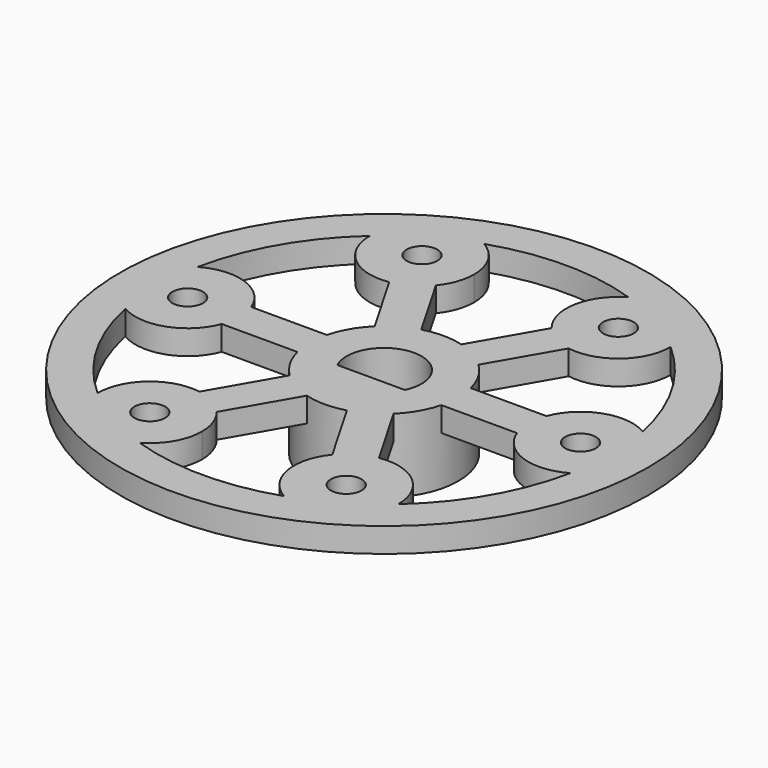
from build123d import *

# Parameters (mm, degrees)
F0_R     = 6.05
F1_DEPTH = 6
F2_R     = 21.5
F2_R_2   = 1.25
F3_DEPTH = 2


with BuildPart() as f1:
    # F0 (on Top) → F1 (new body)
    with BuildSketch(Plane.XY):
        Circle(F0_R)
        with BuildLine():
            Line((2.75, -1.3190905958), (-2.75, -1.3190905958))
            ThreePointArc((-2.75, -1.3190905958), (0, 3.05), (2.75, -1.3190905958))
        make_face(mode=Mode.SUBTRACT)
    extrude(amount=F1_DEPTH)

    # F2 (on face) → F3 (join)
    with BuildSketch(Plane.XY.offset(6)):
        Circle(F2_R)
        with BuildLine():
            ThreePointArc((12.2499946096, 13.8631753962), (16.02146997, 9.25), (18.130859375, 3.67721883))
            ThreePointArc((18.130859375, 3.67721883), (19.6822990335, 2.1220682902), (20.25, 0))
            ThreePointArc((20.25, 0), (19.6822990335, -2.1220682902), (18.130859375, -3.67721883))
            ThreePointArc((18.130859375, -3.67721883), (16.02146997, -9.25), (12.2499946096, -13.8631753962))
            ThreePointArc((12.2499946096, -13.8631753962), (10.125, -17.5370144266), (5.8808647654, -17.5403942262))
            ThreePointArc((5.8808647654, -17.5403942262), (0, -18.5), (-5.8808647654, -17.5403942262))
            ThreePointArc((-5.8808647654, -17.5403942262), (-10.125, -17.5370144266), (-12.2499946096, -13.8631753962))
            ThreePointArc((-12.2499946096, -13.8631753962), (-16.02146997, -9.25), (-18.130859375, -3.67721883))
            ThreePointArc((-18.130859375, -3.67721883), (-20.25, 0), (-18.130859375, 3.67721883))
            ThreePointArc((-18.130859375, 3.67721883), (-16.02146997, 9.25), (-12.2499946096, 13.8631753962))
            ThreePointArc((-12.2499946096, 13.8631753962), (-10.125, 17.5370144266), (-5.8808647654, 17.5403942262))
            ThreePointArc((-5.8808647654, 17.5403942262), (0, 18.5), (5.8808647654, 17.5403942262))
            ThreePointArc((5.8808647654, 17.5403942262), (10.125, 17.5370144266), (12.2499946096, 13.8631753962))
        make_face(mode=Mode.SUBTRACT)
        with BuildLine():
            ThreePointArc((-12.0235065699, 1.5), (-14.5728834228, 4.0032284815), (-18.130859375, 3.67721883))
            ThreePointArc((-18.130859375, 3.67721883), (-18.5, 0), (-18.130859375, -3.67721883))
            ThreePointArc((-18.130859375, -3.67721883), (-14.5728834228, -4.0032284815), (-12.0235065699, -1.5))
            Line((-12.0235065699, -1.5), (-14, -1.5))
            Line((-14, -1.5), (-14, 1.5))
            Line((-14, 1.5), (-12.0235065699, 1.5))
        make_face()
        with Locations((-16, 0)):
            Circle(F2_R_2, mode=Mode.SUBTRACT)
        with BuildLine():
            ThreePointArc((-3.75, 13.8564064606), (-4.3210854354, 15.9843368228), (-5.8808647654, 17.5403942262))
            ThreePointArc((-5.8808647654, 17.5403942262), (-9.25, 16.02146997), (-12.2499946096, 13.8631753962))
            ThreePointArc((-12.2499946096, 13.8631753962), (-10.7533392736, 10.6188730098), (-7.3107913906, 9.6626621321))
            Line((-7.3107913906, 9.6626621321), (-8.2990381057, 11.374355653))
            Line((-8.2990381057, 11.374355653), (-5.7009618943, 12.874355653))
            Line((-5.7009618943, 12.874355653), (-4.7127151792, 11.1626621321))
            ThreePointArc((-4.7127151792, 11.1626621321), (-3.9979092659, 12.4261023824), (-3.75, 13.8564064606))
        make_face()
        with Locations((-8, 13.8564064606)):
            Circle(F2_R_2, mode=Mode.SUBTRACT)
        with BuildLine():
            ThreePointArc((12.25, 13.8564064606), (12.2499986524, 13.8597909294), (12.2499946096, 13.8631753962))
            ThreePointArc((12.2499946096, 13.8631753962), (9.25, 16.02146997), (5.8808647654, 17.5403942262))
            ThreePointArc((5.8808647654, 17.5403942262), (3.8195441493, 14.6221014913), (4.7127151792, 11.1626621321))
            Line((4.7127151792, 11.1626621321), (5.7009618943, 12.874355653))
            Line((5.7009618943, 12.874355653), (8.2990381057, 11.374355653))
            Line((8.2990381057, 11.374355653), (7.3107913906, 9.6626621321))
            ThreePointArc((7.3107913906, 9.6626621321), (10.7507602049, 10.6166814267), (12.25, 13.8564064606))
        make_face()
        with Locations((8, 13.8564064606)):
            Circle(F2_R_2, mode=Mode.SUBTRACT)
        with BuildLine():
            ThreePointArc((18.130859375, -3.67721883), (18.4074835113, -1.8478503135), (18.5, 0))
            ThreePointArc((18.5, 0), (18.4074835113, 1.8478503135), (18.130859375, 3.67721883))
            ThreePointArc((18.130859375, 3.67721883), (14.5728834228, 4.0032284815), (12.0235065699, 1.5))
            Line((12.0235065699, 1.5), (14, 1.5))
            Line((14, 1.5), (14, -1.5))
            Line((14, -1.5), (12.0235065699, -1.5))
            ThreePointArc((12.0235065699, -1.5), (14.5728834228, -4.0032284815), (18.130859375, -3.67721883))
        make_face()
        with Locations((16, 0)):
            Circle(F2_R_2, mode=Mode.SUBTRACT)
        with BuildLine():
            ThreePointArc((5.8808647654, -17.5403942262), (9.25, -16.02146997), (12.2499946096, -13.8631753962))
            ThreePointArc((12.2499946096, -13.8631753962), (12.2499986524, -13.8597909294), (12.25, -13.8564064606))
            ThreePointArc((12.25, -13.8564064606), (10.7507602049, -10.6166814267), (7.3107913906, -9.6626621321))
            Line((7.3107913906, -9.6626621321), (8.2990381057, -11.374355653))
            Line((8.2990381057, -11.374355653), (5.7009618943, -12.874355653))
            Line((5.7009618943, -12.874355653), (4.7127151792, -11.1626621321))
            ThreePointArc((4.7127151792, -11.1626621321), (3.8195441493, -14.6221014913), (5.8808647654, -17.5403942262))
        make_face()
        with Locations((8, -13.8564064606)):
            Circle(F2_R_2, mode=Mode.SUBTRACT)
        with BuildLine():
            ThreePointArc((-12.2499946096, -13.8631753962), (-9.25, -16.02146997), (-5.8808647654, -17.5403942262))
            ThreePointArc((-5.8808647654, -17.5403942262), (-4.3210854354, -15.9843368228), (-3.75, -13.8564064606))
            ThreePointArc((-3.75, -13.8564064606), (-3.9979092659, -12.4261023824), (-4.7127151792, -11.1626621321))
            Line((-4.7127151792, -11.1626621321), (-5.7009618943, -12.874355653))
            Line((-5.7009618943, -12.874355653), (-8.2990381057, -11.374355653))
            Line((-8.2990381057, -11.374355653), (-7.3107913906, -9.6626621321))
            ThreePointArc((-7.3107913906, -9.6626621321), (-10.7533392736, -10.6188730098), (-12.2499946096, -13.8631753962))
        make_face()
        with Locations((-8, -13.8564064606)):
            Circle(F2_R_2, mode=Mode.SUBTRACT)
        with BuildLine():
            ThreePointArc((-12.2499946096, 13.8631753962), (-9.25, 16.02146997), (-5.8808647654, 17.5403942262))
            ThreePointArc((-5.8808647654, 17.5403942262), (-10.125, 17.5370144266), (-12.2499946096, 13.8631753962))
        make_face()
        with BuildLine():
            ThreePointArc((-18.130859375, -3.67721883), (-18.5, 0), (-18.130859375, 3.67721883))
            ThreePointArc((-18.130859375, 3.67721883), (-20.25, 0), (-18.130859375, -3.67721883))
        make_face()
        with BuildLine():
            ThreePointArc((-12.2499946096, -13.8631753962), (-10.125, -17.5370144266), (-5.8808647654, -17.5403942262))
            ThreePointArc((-5.8808647654, -17.5403942262), (-9.25, -16.02146997), (-12.2499946096, -13.8631753962))
        make_face()
        with BuildLine():
            ThreePointArc((5.8808647654, -17.5403942262), (10.125, -17.5370144266), (12.2499946096, -13.8631753962))
            ThreePointArc((12.2499946096, -13.8631753962), (9.25, -16.02146997), (5.8808647654, -17.5403942262))
        make_face()
        with BuildLine():
            ThreePointArc((18.130859375, 3.67721883), (18.4074835113, 1.8478503135), (18.5, 0))
            ThreePointArc((18.5, 0), (18.4074835113, -1.8478503135), (18.130859375, -3.67721883))
            ThreePointArc((18.130859375, -3.67721883), (19.6822990335, -2.1220682902), (20.25, 0))
            ThreePointArc((20.25, 0), (19.6822990335, 2.1220682902), (18.130859375, 3.67721883))
        make_face()
        with BuildLine():
            ThreePointArc((5.8808647654, 17.5403942262), (9.25, 16.02146997), (12.2499946096, 13.8631753962))
            ThreePointArc((12.2499946096, 13.8631753962), (10.125, 17.5370144266), (5.8808647654, 17.5403942262))
        make_face()
        with BuildLine():
            ThreePointArc((-4.7127151792, 11.1626621321), (-5.875, 10.1757984945), (-7.3107913906, 9.6626621321))
            Line((-7.3107913906, 9.6626621321), (-4.2295883953, 4.3258619958))
            ThreePointArc((-4.2295883953, 4.3258619958), (-3.025, 5.2394536929), (-1.6315121839, 5.8258619958))
            Line((-1.6315121839, 5.8258619958), (-4.7127151792, 11.1626621321))
        make_face()
        with BuildLine():
            Line((-8.2990381057, 11.374355653), (-7.3107913906, 9.6626621321))
            ThreePointArc((-7.3107913906, 9.6626621321), (-5.875, 10.1757984945), (-4.7127151792, 11.1626621321))
            Line((-4.7127151792, 11.1626621321), (-5.7009618943, 12.874355653))
            Line((-5.7009618943, 12.874355653), (-8.2990381057, 11.374355653))
        make_face()
        with BuildLine():
            Line((5.7009618943, 12.874355653), (4.7127151792, 11.1626621321))
            ThreePointArc((4.7127151792, 11.1626621321), (5.875, 10.1757984945), (7.3107913906, 9.6626621321))
            Line((7.3107913906, 9.6626621321), (8.2990381057, 11.374355653))
            Line((8.2990381057, 11.374355653), (5.7009618943, 12.874355653))
        make_face()
        with BuildLine():
            ThreePointArc((7.3107913906, 9.6626621321), (5.875, 10.1757984945), (4.7127151792, 11.1626621321))
            Line((4.7127151792, 11.1626621321), (1.6315121839, 5.8258619958))
            ThreePointArc((1.6315121839, 5.8258619958), (3.025, 5.2394536929), (4.2295883953, 4.3258619958))
            Line((4.2295883953, 4.3258619958), (7.3107913906, 9.6626621321))
        make_face()
        with BuildLine():
            ThreePointArc((12.0235065699, -1.5), (11.75, 0), (12.0235065699, 1.5))
            Line((12.0235065699, 1.5), (5.8611005792, 1.5))
            ThreePointArc((5.8611005792, 1.5), (6.0025893789, 0.7559237712), (6.05, 0))
            ThreePointArc((6.05, 0), (6.0025893789, -0.7559237712), (5.8611005792, -1.5))
            Line((5.8611005792, -1.5), (12.0235065699, -1.5))
        make_face()
        with BuildLine():
            Line((14, 1.5), (12.0235065699, 1.5))
            ThreePointArc((12.0235065699, 1.5), (11.75, 0), (12.0235065699, -1.5))
            Line((12.0235065699, -1.5), (14, -1.5))
            Line((14, -1.5), (14, 1.5))
        make_face()
        with BuildLine():
            Line((1.6315121839, -5.8258619958), (4.7127151792, -11.1626621321))
            ThreePointArc((4.7127151792, -11.1626621321), (5.875, -10.1757984945), (7.3107913906, -9.6626621321))
            Line((7.3107913906, -9.6626621321), (4.2295883953, -4.3258619958))
            ThreePointArc((4.2295883953, -4.3258619958), (3.025, -5.2394536929), (1.6315121839, -5.8258619958))
        make_face()
        with BuildLine():
            ThreePointArc((7.3107913906, -9.6626621321), (5.875, -10.1757984945), (4.7127151792, -11.1626621321))
            Line((4.7127151792, -11.1626621321), (5.7009618943, -12.874355653))
            Line((5.7009618943, -12.874355653), (8.2990381057, -11.374355653))
            Line((8.2990381057, -11.374355653), (7.3107913906, -9.6626621321))
        make_face()
        with BuildLine():
            Line((-4.2295883953, -4.3258619958), (-7.3107913906, -9.6626621321))
            ThreePointArc((-7.3107913906, -9.6626621321), (-5.875, -10.1757984945), (-4.7127151792, -11.1626621321))
            Line((-4.7127151792, -11.1626621321), (-1.6315121839, -5.8258619958))
            ThreePointArc((-1.6315121839, -5.8258619958), (-3.025, -5.2394536929), (-4.2295883953, -4.3258619958))
        make_face()
        with BuildLine():
            ThreePointArc((-4.7127151792, -11.1626621321), (-5.875, -10.1757984945), (-7.3107913906, -9.6626621321))
            Line((-7.3107913906, -9.6626621321), (-8.2990381057, -11.374355653))
            Line((-8.2990381057, -11.374355653), (-5.7009618943, -12.874355653))
            Line((-5.7009618943, -12.874355653), (-4.7127151792, -11.1626621321))
        make_face()
        with BuildLine():
            Line((-5.8611005792, 1.5), (-12.0235065699, 1.5))
            ThreePointArc((-12.0235065699, 1.5), (-11.8189357169, 0.7623657003), (-11.75, 0))
            ThreePointArc((-11.75, 0), (-11.8189357169, -0.7623657003), (-12.0235065699, -1.5))
            Line((-12.0235065699, -1.5), (-5.8611005792, -1.5))
            ThreePointArc((-5.8611005792, -1.5), (-6.05, 0), (-5.8611005792, 1.5))
        make_face()
        with BuildLine():
            ThreePointArc((-11.75, 0), (-11.8189357169, 0.7623657003), (-12.0235065699, 1.5))
            Line((-12.0235065699, 1.5), (-14, 1.5))
            Line((-14, 1.5), (-14, -1.5))
            Line((-14, -1.5), (-12.0235065699, -1.5))
            ThreePointArc((-12.0235065699, -1.5), (-11.8189357169, -0.7623657003), (-11.75, 0))
        make_face()
    extrude(amount=-F3_DEPTH)


solid = f1.part
